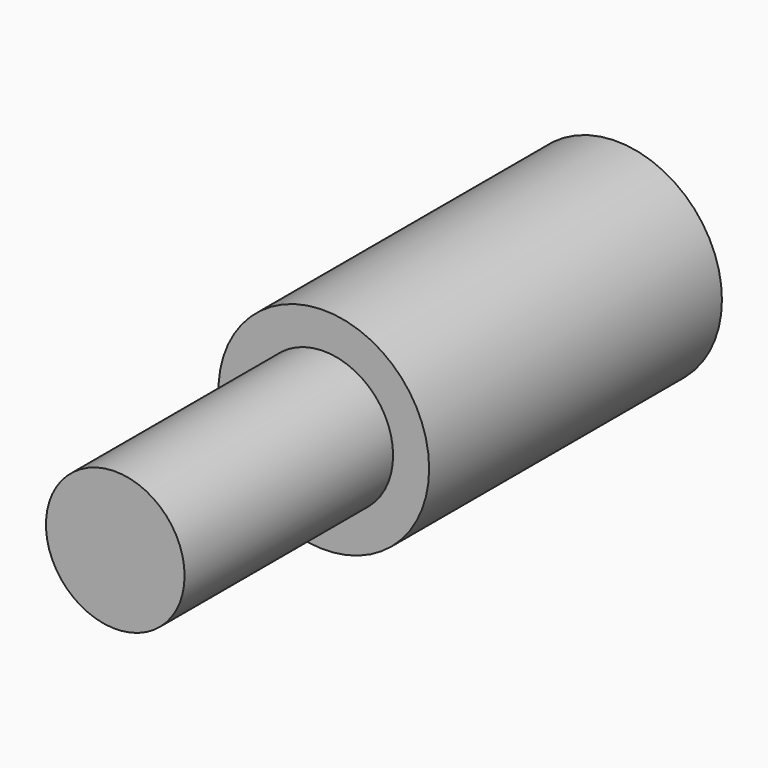
from build123d import *

# Parameters (mm, degrees)
SKETCH_R     = 9.5
PAD_DEPTH    = 33
SKETCH001_R  = 4
POCKET_DEPTH = 30
SKETCH002_R  = 6.25
PAD001_DEPTH = 23.5


with BuildPart() as part:
    # Sketch → Pad (new body)
    with BuildSketch(Plane.XZ):
        Circle(SKETCH_R)
    extrude(amount=PAD_DEPTH)

    # Sketch001 (on Face2 of Pad) → Pocket (cut)
    with BuildSketch(Plane(origin=(0, 0, 0), x_dir=(1, 0, 0), z_dir=(0, 1, 0))):
        Circle(SKETCH001_R)
    extrude(amount=-POCKET_DEPTH, mode=Mode.SUBTRACT)

    # Sketch002 (on Face3 of Pocket) → Pad001 (join)
    with BuildSketch(Plane.XZ.offset(33)):
        Circle(SKETCH002_R)
    extrude(amount=PAD001_DEPTH)


solid = part.part
